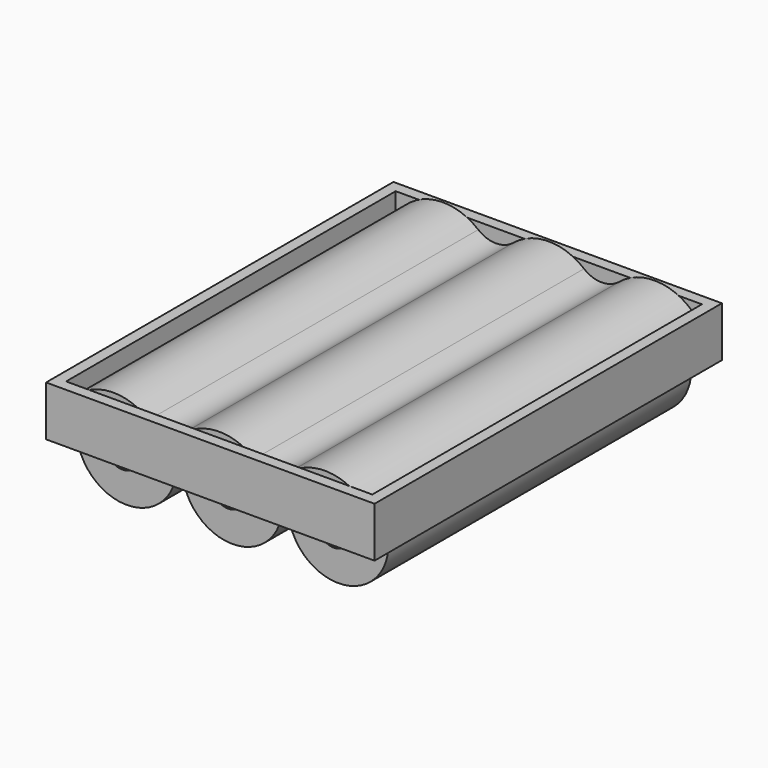
from build123d import *

# Parameters (mm, degrees)
F0_R      = 9
F1_DEPTH  = 68
F2_R      = 3
F3_DEPTH  = 1
F5_DEPTH  = 9
F12_DEPTH = 74
F13_R     = 5


with BuildPart() as f1:
    # F0 (on Front) → F1 (new body)
    with BuildSketch(Plane.XZ):
        Circle(F0_R)
    extrude(amount=F1_DEPTH)

    # F2 (on face) → F3 (join)
    with BuildSketch(Plane.XZ.offset(68)):
        Circle(F2_R)
    extrude(amount=F3_DEPTH)


with BuildPart() as f5:
    # F4 (on Top) → F5 (new body)
    with BuildSketch(Plane.XY):
        Polygon((29.5, 0), (0, 0), (-29.5, 0), (-29.5, -78), (0, -78), (29.5, -78), align=None)
        Polygon((27.5, -76), (0, -76), (-27.5, -76), (-27.5, -2), (0, -2), (27.5, -2), align=None, mode=Mode.SUBTRACT)
    extrude(amount=F5_DEPTH)


with BuildPart() as f1_1:
    # F6: moved
    add(f1.part.moved(Location((0, -5, 0))))


with BuildPart() as f7_1:
    # F7: copy of F1
    add(f1_1.part.moved(Location((18, 0, 0))))


with BuildPart() as f8_1:
    # F8: copy of F1
    add(f1_1.part.moved(Location((-18, 0, 0))))


with BuildPart() as f8_1_1:
    # F9: moved
    add(f8_1.part.moved(Location((-1, 0, 0))))


with BuildPart() as f7_1_1:
    # F10: moved
    add(f7_1.part.moved(Location((1, 0, 0))))


with BuildPart() as f12:
    # F11 (on face) → F12 (new body, through all)
    with BuildSketch(Plane(origin=(0, -76, 0), x_dir=(-1, 0, 0), z_dir=(0, 1, 0))):
        with BuildLine():
            ThreePointArc((10, 0), (19, 9), (28, 0))
            Line((28, 0), (29, 0))
            ThreePointArc((29, 0), (20.581139, 9.874209), (9.5, 3.122499))
            ThreePointArc((9.5, 3.122499), (0, 10), (-9.5, 3.122499))
            ThreePointArc((-9.5, 3.122499), (-20.581139, 9.874209), (-29, 0))
            ThreePointArc((-29, 0), (-28.5, -0.5), (-28, 0))
            ThreePointArc((-28, 0), (-19, 9), (-10, 0))
            Line((-10, 0), (-9, 0))
            ThreePointArc((-9, 0), (0, 9), (9, 0))
            Line((9, 0), (10, 0))
        make_face()
        with BuildLine():
            Line((29, 0), (28, 0))
            ThreePointArc((28, 0), (28.5, -0.5), (29, 0))
        make_face()
        with BuildLine():
            ThreePointArc((9, 0), (9.5, -0.5), (10, 0))
            Line((10, 0), (9, 0))
        make_face()
        with BuildLine():
            ThreePointArc((-10, 0), (-9.5, -0.5), (-9, 0))
            Line((-9, 0), (-10, 0))
        make_face()
    extrude(amount=F12_DEPTH)

    # F13
    f13_edges = [f12.edges().sort_by_distance(p)[0] for p in [
        (-9.5, -39, 3.122499),
        (9.5, -39, 3.122499),
    ]]
    fillet(f13_edges, radius=F13_R)


solid = Compound([f5.part, f1_1.part, f8_1_1.part, f7_1_1.part, f12.part])
